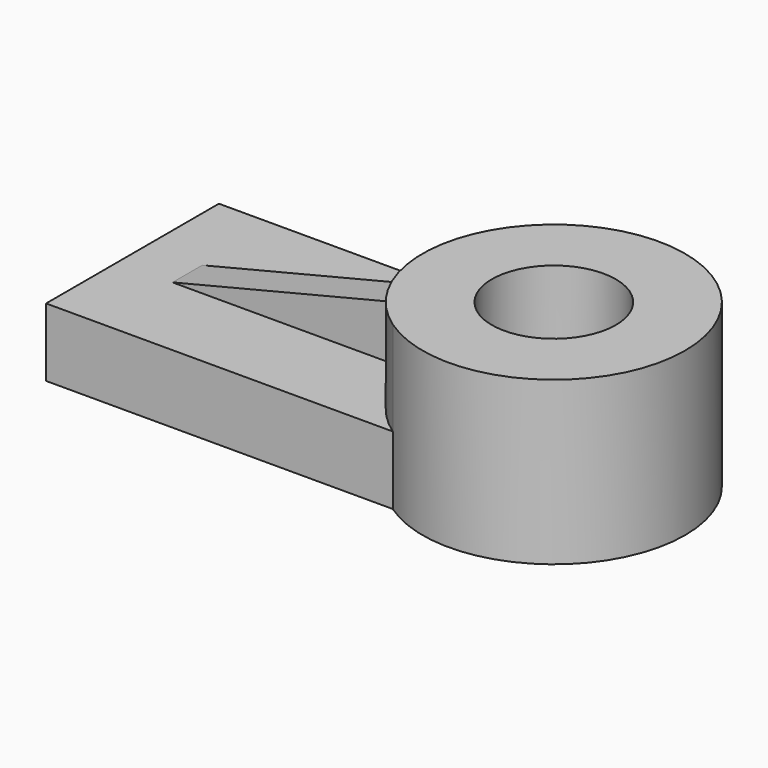
from build123d import *

# Parameters (mm, degrees)
F1_DEPTH = 10.668
F0_R     = 9.6911240881
F2_DEPTH = 25.4
F4_DEPTH = 9.144
F6_DEPTH = 23.4226514116


with BuildPart() as f1:
    # F0 (on Top) → F1 (new body)
    with BuildSketch(Plane.XY):
        with BuildLine():
            ThreePointArc((-1.1775513103, -16.8828442693), (-10.0338594761, 0), (-1.1775513103, 16.8828442693))
            Line((-1.1775513103, 16.8828442693), (-55.3673403338, 16.8828442693))
            Line((-55.3673403338, 16.8828442693), (-55.3673403338, -16.8828442693))
            Line((-55.3673403338, -16.8828442693), (-1.1775513103, -16.8828442693))
        make_face()
    extrude(amount=F1_DEPTH)

    # F0 (on Top) → F2 (join)
    with BuildSketch(Plane.XY):
        with BuildLine():
            ThreePointArc((31.0063367483, 0), (20.0186127494, 18.1716336717), (-1.1775513103, 16.8828442693))
            ThreePointArc((-1.1775513103, 16.8828442693), (-10.0338594761, 0), (-1.1775513103, -16.8828442693))
            ThreePointArc((-1.1775513103, -16.8828442693), (20.0186127494, -18.1716336717), (31.0063367483, 0))
        make_face()
        with Locations((10.4862386361, 0)):
            Circle(F0_R, mode=Mode.SUBTRACT)
    extrude(amount=F2_DEPTH)

    # F3 (on face) → F4 (join)
    with BuildSketch(Plane.XY.offset(10.668)):
        with BuildLine():
            ThreePointArc((-9.8276830676, -2.9015532994), (-10.0338594761, 0), (-9.8276830676, 2.9015532994))
            Line((-9.8276830676, 2.9015532994), (-46.7980072435, 2.9015532994))
            Line((-46.7980072435, 2.9015532994), (-46.7980072435, -2.9015532994))
            Line((-46.7980072435, -2.9015532994), (-9.8276830676, -2.9015532994))
        make_face()
    extrude(amount=F4_DEPTH)

    # F5 (on face) → F6 (cut, through all)
    with BuildSketch(Plane.XZ.offset(2.9015532994)):
        Polygon((-46.7980072435, 10.668), (-9.8276830676, 19.812), (-46.7980072435, 19.812), align=None)
    extrude(amount=-F6_DEPTH, mode=Mode.SUBTRACT)


solid = f1.part
